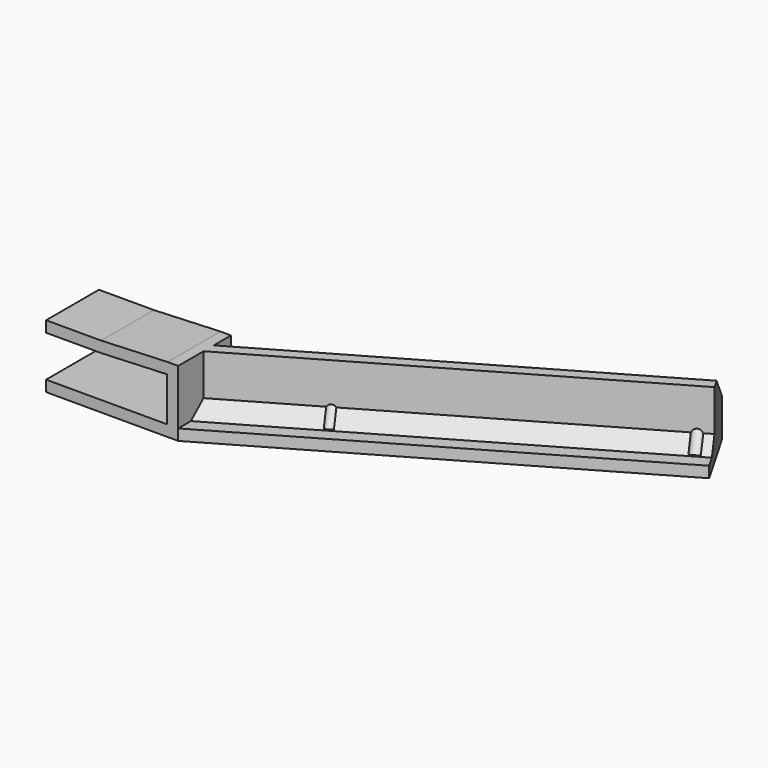
from build123d import *

# Parameters (mm, degrees)
F1_DEPTH  = 4
F2_W      = 4
F2_H      = 16
F2_W_2    = 20
F2_H_2    = 4
F3_DEPTH  = 24
F5_DEPTH  = 20
F7_DEPTH  = 20
F8_SIZE   = 10
F9_SIZE   = 5
F10_R     = 2
F10_R_2   = 2.1593554105
F11_DEPTH = 20.1
F13_DEPTH = 3.5
F15_DEPTH = 3.5


with BuildPart() as f1:
    # F0 (on Top) → F1 (new body)
    with BuildSketch(Plane.XY):
        Polygon((-35.7348556412, 8.7559268959), (-77.3040750229, 8.7559268959), (-77.3040750229, -15.2440731041), (-29.3040750229, -15.2440731041), (-29.3040750229, -2.3825118674), align=None)
        Polygon((90.6959249771, 81.7507721197), (-35.7348556412, 8.7559268959), (-29.3040750229, 8.7559268959), (-29.3040750229, -2.3825118674), (-23.7348556412, -12.0286827949), (102.6959249771, 60.9661624289), align=None)
        Polygon((-29.3040750229, 8.7559268959), (-35.7348556412, 8.7559268959), (-29.3040750229, -2.3825118674), align=None)
        Polygon((-23.7348556412, -12.0286827949), (-29.3040750229, -2.3825118674), (-29.3040750229, -15.2440731041), align=None)
    extrude(amount=F1_DEPTH)

    # F2 (on face) → F3 (join)
    with BuildSketch(Plane.XZ.offset(15.2440731041)):
        with Locations((-31.3040750229, 12)):
            Rectangle(F2_W, F2_H)
        Polygon((-33.3040750229, 20), (-29.3040750229, 20), (-29.3040750229, 24), (-33.1334466886, 24), (-57.3040750229, 23), (-57.3040750229, 19), align=None)
        with Locations((-67.3040750229, 21)):
            Rectangle(F2_W_2, F2_H_2)
    extrude(amount=-F3_DEPTH)

    # F4 (on face) → F5 (join)
    with BuildSketch(Plane.XY.offset(4)):
        Polygon((-29.3040750229, -3.6970677203), (97.6959249771, 69.6264164668), (95.6959249771, 73.0905180819), (-29.3040750229, 0.9217344332), align=None)
    extrude(amount=F5_DEPTH)

    # F6 (on face) → F7 (join)
    with BuildSketch(Plane.XY.offset(4)):
        Polygon((87.0356709393, 68.0905180819), (95.6959249771, 73.0905180819), (90.6959249771, 81.7507721197), (82.0356709393, 76.7507721197), align=None)
        Polygon((4.7632575798, 20.5905180819), (-0.2367424202, 29.2507721197), (-8.8969964581, 24.2507721197), (-3.8969964581, 15.5905180819), align=None)
    extrude(amount=F7_DEPTH)

    # F8
    f8_edges = [f1.edges().sort_by_distance(p)[0] for p in [
        (86.365798, 79.250772, 24),
        (-4.566869, 26.750772, 24),
    ]]
    chamfer(f8_edges, length=F8_SIZE)

    # F9
    f9_edges = [f1.edges().sort_by_distance(p)[0] for p in [
        (34.195925, 32.964674, 4),
        (45.899464, 44.340518, 4),
    ]]
    chamfer(f9_edges, length=F9_SIZE)

    # F10 (on face) → F11 (cut)
    with BuildSketch(Plane(origin=(-9.8625707365, 17.0824736089, 19.7251414731), x_dir=(0.9354143467, 0.2314550249, 0.2672612419), z_dir=(-0.3535533906, 0.6123724357, 0.7071067812))):
        with Locations((7.5511651872, 6.4274310849)):
            Circle(F10_R)
        with Locations((104.822506347, 45.9661663088)):
            Circle(F10_R_2)
    extrude(amount=-F11_DEPTH, mode=Mode.SUBTRACT)

    # F12 (on face) → F13 (cut)
    with BuildSketch(Plane(origin=(-9.8625707365, 17.0824736089, 19.7251414731), x_dir=(0.9354143467, 0.2314550249, 0.2672612419), z_dir=(-0.3535533906, 0.6123724357, 0.7071067812))):
        Polygon((101.187753457, 44.4822846552), (104.2902091103, 42.0764371428), (107.9249620003, 43.5603187964), (108.457259237, 47.4500479624), (105.3548035838, 49.8558954748), (101.7200506938, 48.3720138212), align=None)
    extrude(amount=-F13_DEPTH, mode=Mode.SUBTRACT)

    # F14 (on face) → F15 (cut)
    with BuildSketch(Plane(origin=(-9.8625707365, 17.0824736089, 19.7251414731), x_dir=(0.9354143467, 0.2314550249, 0.2672612419), z_dir=(-0.3535533906, 0.6123724357, 0.7071067812))):
        Polygon((3.9164122972, 4.9435494313), (7.0188679504, 2.5377019189), (10.6536208404, 4.0215835725), (11.1859180772, 7.9113127385), (8.0834624239, 10.3171602509), (4.4487095339, 8.8332785973), align=None)
    extrude(amount=-F15_DEPTH, mode=Mode.SUBTRACT)


solid = f1.part
